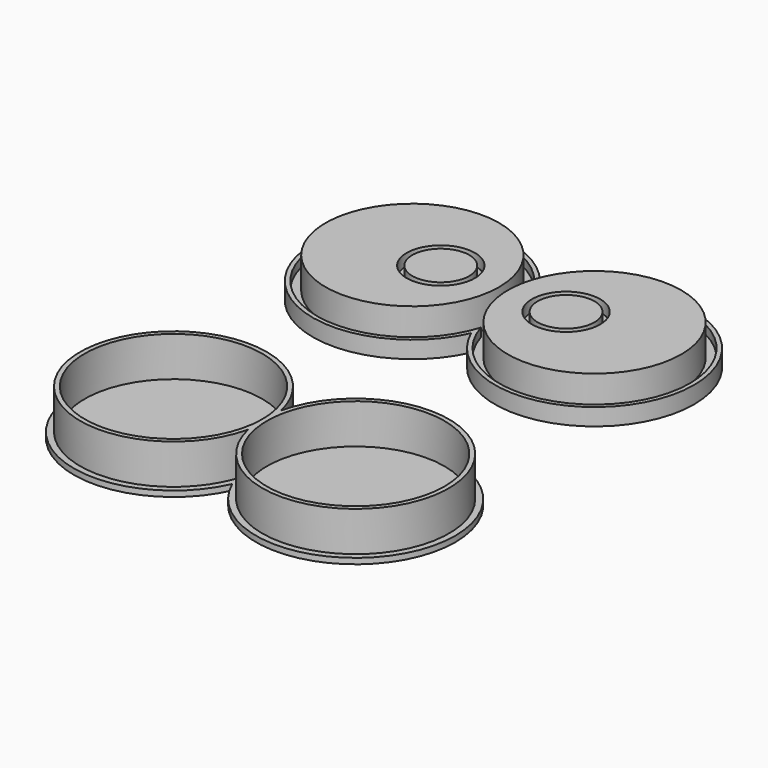
from build123d import *

# Parameters (mm, degrees)
F0_R     = 5
F1_DEPTH = 7
F0_R_2   = 15.25
F0_R_3   = 6
F2_DEPTH = 5
F3_DEPTH = 1.5
F4_DEPTH = 3
F0_R_4   = 15.6
F5_DEPTH = 8
F6_DEPTH = 1


with BuildPart() as f1:
    # F0 (on Top) → F1 (new body)
    with BuildSketch(Plane.XY):
        with Locations((-11, 0)):
            Circle(F0_R)
        with Locations((-11, 0)):
            Circle(F0_R)
    extrude(amount=F1_DEPTH)



with BuildPart() as f1b:
    # F0 (on Top) → F1, piece 2 (new body)
    with BuildSketch(Plane.XY):
        with Locations((11, 0)):
            Circle(F0_R)
        with Locations((11, 0)):
            Circle(F0_R)
    extrude(amount=F1_DEPTH)



with BuildPart() as f1c:
    # F0 (on Top) → F1, piece 3 (new body)
    with BuildSketch(Plane.XY):
        with Locations((-16, 0)):
            Circle(F0_R_2)
        with Locations((-11, 0)):
            Circle(F0_R_3, mode=Mode.SUBTRACT)
        with Locations((-16, 0)):
            Circle(F0_R_2)
        with Locations((-11, 0)):
            Circle(F0_R_3, mode=Mode.SUBTRACT)
    extrude(amount=F1_DEPTH)


with BuildPart() as f1d:
    # F0 (on Top) → F1, piece 4 (new body)
    with BuildSketch(Plane.XY):
        with Locations((16, 0)):
            Circle(F0_R_2)
        with Locations((11, 0)):
            Circle(F0_R_3, mode=Mode.SUBTRACT)
    extrude(amount=F1_DEPTH)


with BuildPart() as f1_1:
    add(f1.part)

    add(f1c.part)  # F2 merges F1c
    # F0 (on Top) → F2 (join)
    with BuildSketch(Plane.XY):
        with Locations((-11, 0)):
            Circle(F0_R_3)
        with Locations((-11, 0)):
            Circle(F0_R, mode=Mode.SUBTRACT)
    extrude(amount=F2_DEPTH)



with BuildPart() as f1b_1:
    add(f1b.part)

    add(f1d.part)  # F2#2 merges F1d
    # F0 (on Top) → F2, piece 2 (join)
    with BuildSketch(Plane.XY):
        with Locations((11, 0)):
            Circle(F0_R_3)
        with Locations((11, 0)):
            Circle(F0_R, mode=Mode.SUBTRACT)
    extrude(amount=F2_DEPTH)


with BuildPart() as f1_2:
    add(f1_1.part)

    add(f1b_1.part)  # F3 merges F1b
    # F0 (on Top) → F3 (join)
    with BuildSketch(Plane.XY):
        with BuildLine():
            ThreePointArc((0, -4.9560569004), (32.75, 0), (0, 4.9560569004))
            ThreePointArc((0, 4.9560569004), (-32.75, 0), (0, -4.9560569004))
        make_face()
        with Locations((-16, 0)):
            Circle(F0_R_2, mode=Mode.SUBTRACT)
        with Locations((16, 0)):
            Circle(F0_R_2, mode=Mode.SUBTRACT)
    extrude(amount=F3_DEPTH)

    # F0 (on Top) → F4 (join)
    with BuildSketch(Plane.XY):
        with BuildLine():
            ThreePointArc((0, -7.0887234394), (33.5, 0), (0, 7.0887234394))
            ThreePointArc((0, 7.0887234394), (-33.5, 0), (0, -7.0887234394))
        make_face()
        with BuildLine():
            ThreePointArc((0, -4.9560569004), (-32.75, 0), (0, 4.9560569004))
            ThreePointArc((0, 4.9560569004), (32.75, 0), (0, -4.9560569004))
        make_face(mode=Mode.SUBTRACT)
    extrude(amount=F4_DEPTH)


with BuildPart() as f5:
    # F0 (on Top) → F5 (new body)
    with BuildSketch(Plane.XY):
        with BuildLine():
            ThreePointArc((0, -56.0460449815), (32.4, -52.4460449815), (0, -48.8460449815))
            ThreePointArc((0, -48.8460449815), (-32.4, -52.4460449815), (0, -56.0460449815))
        make_face()
        with Locations((-16, -52.4460449815)):
            Circle(F0_R_4, mode=Mode.SUBTRACT)
        with Locations((16, -52.4460449815)):
            Circle(F0_R_4, mode=Mode.SUBTRACT)
    extrude(amount=F5_DEPTH)

    # F0 (on Top) → F6 (join)
    with BuildSketch(Plane.XY):
        with BuildLine():
            ThreePointArc((0, -45.3573215421), (-33.5, -52.4460449815), (0, -59.5347684209))
            ThreePointArc((0, -59.5347684209), (33.5, -52.4460449815), (0, -45.3573215421))
        make_face()
        with BuildLine():
            ThreePointArc((0, -56.0460449815), (-32.4, -52.4460449815), (0, -48.8460449815))
            ThreePointArc((0, -48.8460449815), (32.4, -52.4460449815), (0, -56.0460449815))
        make_face(mode=Mode.SUBTRACT)
        with Locations((-16, -52.4460449815)):
            Circle(F0_R_4)
        with Locations((16, -52.4460449815)):
            Circle(F0_R_4)
    extrude(amount=F6_DEPTH)


solid = Compound([f1_2.part, f5.part])
